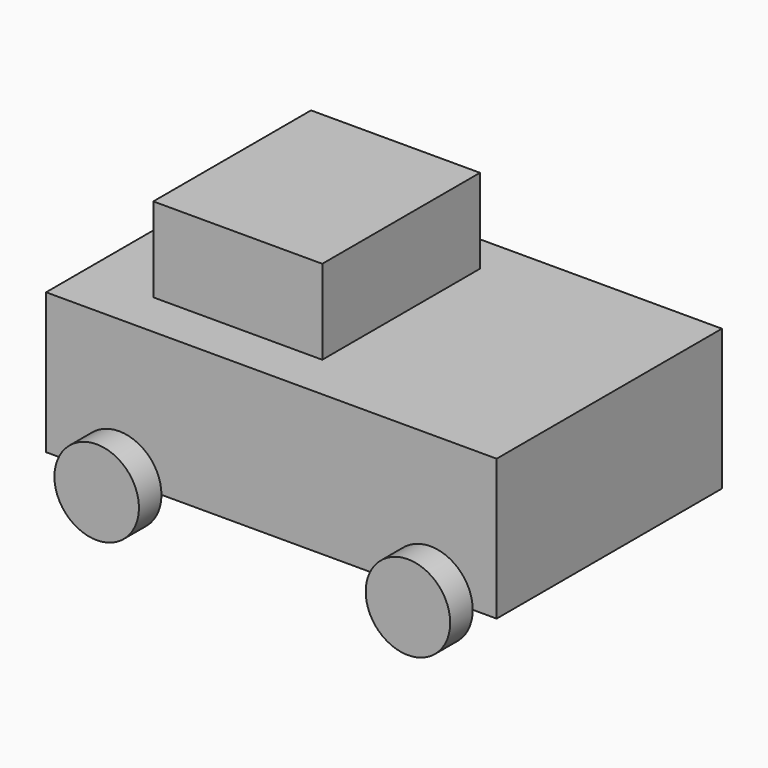
from build123d import *

# Parameters (mm, degrees)
F0_W     = 80
F0_H     = 50
F1_DEPTH = 25
F2_W     = 30
F2_H     = 35
F3_DEPTH = 15
F5_DEPTH = 5


with BuildPart() as f1:
    # F0 (on Top) → F1 (new body)
    with BuildSketch(Plane.XY):
        with Locations((0.632411, -25)):
            Rectangle(F0_W, F0_H)
    extrude(amount=F1_DEPTH)

    # F2 (on face) → F3 (join)
    with BuildSketch(Plane.XY.offset(25)):
        with Locations((-11.804453, -24.404109)):
            Rectangle(F2_W, F2_H)
    extrude(amount=F3_DEPTH)

    # F4 (on face) → F5 (join)
    with BuildSketch(Plane.XZ.offset(50)):
        with BuildLine():
            Line((-33.882271, 0), (-18.882271, 0))
            ThreePointArc((-18.882271, 0), (-26.382271, 7.5), (-33.882271, 0))
        make_face()
        with BuildLine():
            Line((36.384543, 0), (21.384543, 0))
            ThreePointArc((21.384543, 0), (28.884543, -7.5), (36.384543, 0))
        make_face()
        with BuildLine():
            ThreePointArc((-33.882271, 0), (-26.382271, -7.5), (-18.882271, 0))
            Line((-18.882271, 0), (-33.882271, 0))
        make_face()
        with BuildLine():
            ThreePointArc((36.384543, 0), (28.884543, 7.5), (21.384543, 0))
            Line((21.384543, 0), (36.384543, 0))
        make_face()
    extrude(amount=F5_DEPTH)


solid = f1.part
